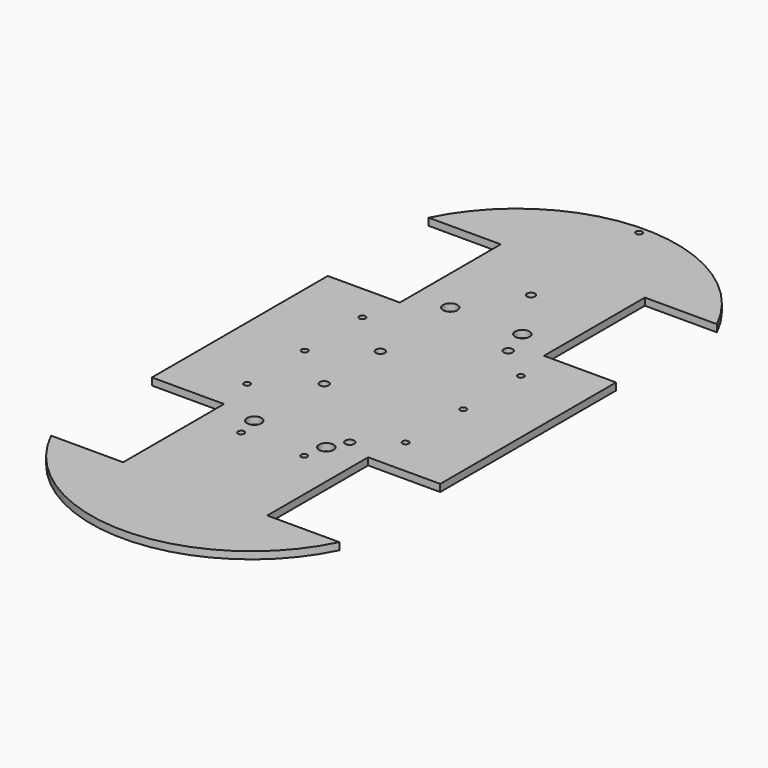
from build123d import *

# Parameters (mm, degrees)
F0_R     = 1.75
F0_R_2   = 4
F0_R_3   = 2.5
F0_R_4   = 2.25
F1_DEPTH = 4


with BuildPart() as f1:
    # F0 (on Top) → F1 (new body)
    with BuildSketch(Plane.XY):
        with BuildLine():
            ThreePointArc((80, 169.488149), (0, 219.488149), (-80, 169.488149))
            Line((-80, 169.488149), (-40, 169.488149))
            Line((-40, 169.488149), (-40, 99.488149))
            Line((-40, 99.488149), (-80, 99.488149))
            Line((-80, 99.488149), (-80, -22.511851))
            Line((-80, -22.511851), (-40, -22.511851))
            Line((-40, -22.511851), (-40, -92.511851))
            Line((-40, -92.511851), (-80, -92.511851))
            ThreePointArc((-80, -92.511851), (0, -142.511851), (80, -92.511851))
            Line((80, -92.511851), (40, -92.511851))
            Line((40, -92.511851), (40, -22.511851))
            Line((40, -22.511851), (80, -22.511851))
            Line((80, -22.511851), (80, 99.488149))
            Line((80, 99.488149), (40, 99.488149))
            Line((40, 99.488149), (40, 169.488149))
            Line((40, 169.488149), (80, 169.488149))
        make_face()
        with Locations((-44, -1.511851)):
            Circle(F0_R, mode=Mode.SUBTRACT)
        with Locations((-17.5, -38.761851)):
            Circle(F0_R, mode=Mode.SUBTRACT)
        with Locations((-20, -26.511851)):
            Circle(F0_R_2, mode=Mode.SUBTRACT)
        with Locations((-18, 19.488149)):
            Circle(F0_R_3, mode=Mode.SUBTRACT)
        with Locations((17.5, -38.761851)):
            Circle(F0_R, mode=Mode.SUBTRACT)
        with Locations((20, -26.511851)):
            Circle(F0_R_2, mode=Mode.SUBTRACT)
        with Locations((25, -16.511851)):
            Circle(F0_R_3, mode=Mode.SUBTRACT)
        with Locations((44, -1.511851)):
            Circle(F0_R, mode=Mode.SUBTRACT)
        with Locations((-44, 38.488149)):
            Circle(F0_R, mode=Mode.SUBTRACT)
        with Locations((-44, 78.488149)):
            Circle(F0_R, mode=Mode.SUBTRACT)
        with Locations((-18, 58.488149)):
            Circle(F0_R_3, mode=Mode.SUBTRACT)
        with Locations((-20, 109.488149)):
            Circle(F0_R_2, mode=Mode.SUBTRACT)
        with Locations((25, 93.488149)):
            Circle(F0_R_3, mode=Mode.SUBTRACT)
        with Locations((20, 109.488149)):
            Circle(F0_R_2, mode=Mode.SUBTRACT)
        with Locations((44, 38.488149)):
            Circle(F0_R, mode=Mode.SUBTRACT)
        with Locations((44, 78.488149)):
            Circle(F0_R, mode=Mode.SUBTRACT)
        with Locations((0, 140.488149)):
            Circle(F0_R_4, mode=Mode.SUBTRACT)
        with Locations((0, 215.488149)):
            Circle(F0_R, mode=Mode.SUBTRACT)
    extrude(amount=F1_DEPTH)


solid = f1.part
